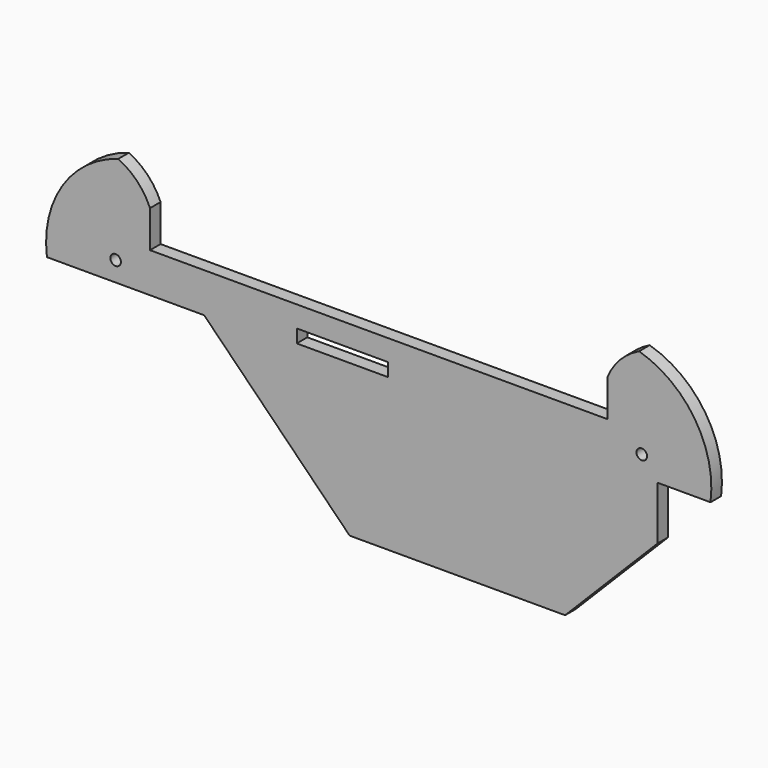
from build123d import *

# Parameters (mm, degrees)
F1_DEPTH = 5
F2_W     = 34.5
F2_H     = 5
F3_DEPTH = 25
F4_R     = 2
F5_DEPTH = 25


with BuildPart() as f1:
    # F0 (on Front) → F1 (new body)
    with BuildSketch(Plane.XZ):
        with BuildLine():
            Line((-105.5, 20.25), (-105.5, 35.25))
            Line((-105.5, 35.25), (-86.5, 35.25))
            Line((-86.5, 35.25), (-86.5, 49.25))
            ThreePointArc((-86.5, 49.25), (-91.344095, 56.609669), (-98.5, 61.75))
            ThreePointArc((-98.5, 61.75), (-119.628789, 45.963308), (-125.5, 20.25))
            Line((-125.5, 20.25), (-105.5, 20.25))
        make_face()
        Polygon((-86.5, 35.25), (-105.5, 35.25), (-105.5, 20.25), (-105.5, -35.25), (105.5, -35.25), (105.5, 20.25), (105.5, 35.25), (86.5, 35.25), align=None)
        with BuildLine():
            Line((86.5, 49.25), (86.5, 35.25))
            Line((86.5, 35.25), (105.5, 35.25))
            Line((105.5, 35.25), (105.5, 20.25))
            Line((105.5, 20.25), (125.5, 20.25))
            ThreePointArc((125.5, 20.25), (119.628789, 45.963308), (98.5, 61.75))
            ThreePointArc((98.5, 61.75), (91.344095, 56.609669), (86.5, 49.25))
        make_face()
    extrude(amount=F1_DEPTH)

    # F2 (on face) → F3 (cut)
    with BuildSketch(Plane.XZ.offset(5)):
        Polygon((125.5, 20.25), (70.5, -35.25), (119.704917, -35.25), align=None)
        Polygon((-105.5, -35.25), (-11, -35.25), (-66.019693, 20.25), (-105.5, 20.25), align=None)
        with Locations((-13.75, 24.75)):
            Rectangle(F2_W, F2_H)
    extrude(amount=-F3_DEPTH, mode=Mode.SUBTRACT)

    # F4 (on face) → F5 (cut)
    with BuildSketch(Plane.XZ.offset(5)):
        with Locations((-99.5, 27.75)):
            Circle(F4_R)
        with Locations((99.5, 27.75)):
            Circle(F4_R)
    extrude(amount=-F5_DEPTH, mode=Mode.SUBTRACT)


solid = f1.part
